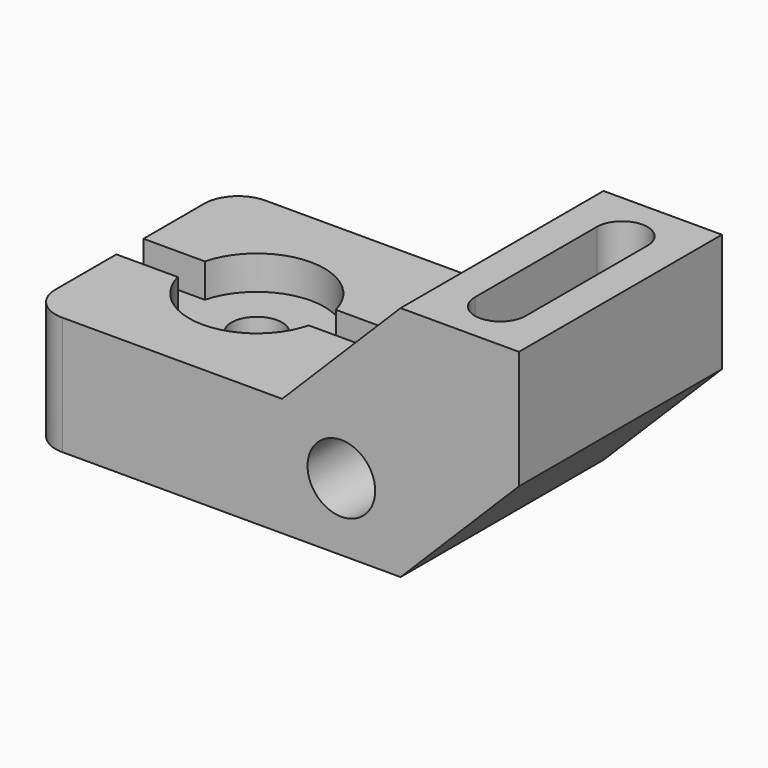
from build123d import *

# Parameters (mm, degrees)
F0_R     = 10.16
F1_DEPTH = 38.1
F2_R     = 10.16
F4_DEPTH = 27.94
F6_DEPTH = 10.16
F7_D     = 15.24


with BuildPart() as f1:
    # F0 (on Front) → F1 (new body, symmetric)
    with BuildSketch(Plane.XZ):
        Polygon((-111.76, 35.56), (-111.76, 0), (0, 0), (35.56, 35.56), (35.56, 71.12), (0, 71.12), (-35.56, 35.56), align=None)
        with Locations((-17.78, 20.32)):
            Circle(F0_R, mode=Mode.SUBTRACT)
    extrude(amount=F1_DEPTH, both=True)

    # F2
    f2_edges = [f1.edges().sort_by_distance(p)[0] for p in [
        (-111.76, -38.1, 17.78),
        (-111.76, 38.1, 17.78),
    ]]
    fillet(f2_edges, radius=F2_R)

    # F3 (on face) → F4 (cut)
    with BuildSketch(Plane.XY.offset(71.12)):
        with BuildLine():
            ThreePointArc((10.16, -22.86), (17.78, -30.48), (25.4, -22.86))
            Line((25.4, -22.86), (25.4, 22.86))
            ThreePointArc((25.4, 22.86), (17.78, 30.48), (10.16, 22.86))
            Line((10.16, 22.86), (10.16, -22.86))
        make_face()
    extrude(amount=-F4_DEPTH, mode=Mode.SUBTRACT)

    # F5 (on face) → F6 (cut)
    with BuildSketch(Plane.XY.offset(35.56)):
        with BuildLine():
            ThreePointArc((-53.34, 0), (-53.5019565719, -2.5604072232), (-53.9852446013, -5.08))
            Line((-53.9852446013, -5.08), (-35.56, -5.08))
            Line((-35.56, -5.08), (-35.56, 5.08))
            Line((-35.56, 5.08), (-53.9852446013, 5.08))
            ThreePointArc((-53.9852446013, 5.08), (-53.5019565719, 2.5604072232), (-53.34, 0))
        make_face()
        with BuildLine():
            Line((-53.9852446013, -5.08), (-93.3347553987, -5.08))
            ThreePointArc((-93.3347553987, -5.08), (-73.66, -20.32), (-53.9852446013, -5.08))
        make_face()
        with BuildLine():
            ThreePointArc((-93.3347553987, 5.08), (-93.98, 0), (-93.3347553987, -5.08))
            Line((-93.3347553987, -5.08), (-53.9852446013, -5.08))
            ThreePointArc((-53.9852446013, -5.08), (-53.5019565719, -2.5604072232), (-53.34, 0))
            ThreePointArc((-53.34, 0), (-53.5019565719, 2.5604072232), (-53.9852446013, 5.08))
            Line((-53.9852446013, 5.08), (-93.3347553987, 5.08))
        make_face()
        with BuildLine():
            ThreePointArc((-53.9852446013, 5.08), (-73.66, 20.32), (-93.3347553987, 5.08))
            Line((-93.3347553987, 5.08), (-53.9852446013, 5.08))
        make_face()
        with BuildLine():
            Line((-111.76, 5.08), (-111.76, -5.08))
            Line((-111.76, -5.08), (-93.3347553987, -5.08))
            ThreePointArc((-93.3347553987, -5.08), (-93.98, 0), (-93.3347553987, 5.08))
            Line((-93.3347553987, 5.08), (-111.76, 5.08))
        make_face()
    extrude(amount=-F6_DEPTH, mode=Mode.SUBTRACT)

    # F7 (through all)
    with Locations(Plane.XY.offset(35.56)):
        with Locations((-73.66, 0)):
            Hole(F7_D / 2)


solid = f1.part
